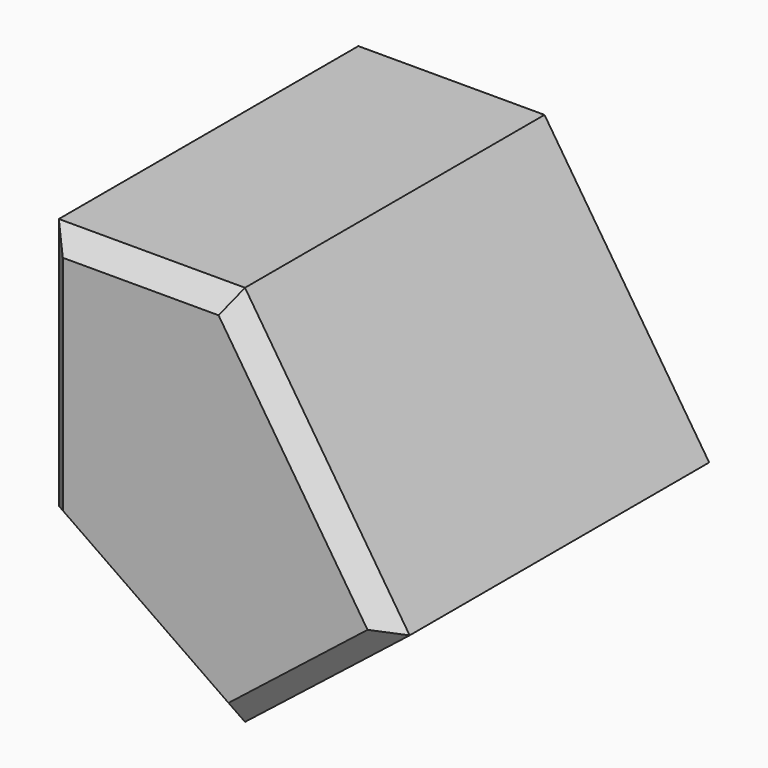
from build123d import *

# Parameters (mm, degrees)
F1_DEPTH = 101.6
F2_SIZE  = 5.08


with BuildPart() as f1:
    # F0 (on Front) → F1 (new body)
    with BuildSketch(Plane.XZ):
        Polygon((0, 65.09126), (-47.993541, 65.09126), (-47.993541, 0), (0, -33.445492), (42.444304, 0), align=None)
    extrude(amount=F1_DEPTH)

    # F2
    f2_edges = [f1.edges().sort_by_distance(p)[0] for p in [
        (21.222152, -101.6, 32.54563),
        (-23.99677, -101.6, 65.09126),
        (-47.993541, -101.6, 32.54563),
        (-23.99677, -101.6, -16.722746),
        (21.222152, -101.6, -16.722746),
    ]]
    chamfer(f2_edges, length=F2_SIZE)


solid = f1.part
